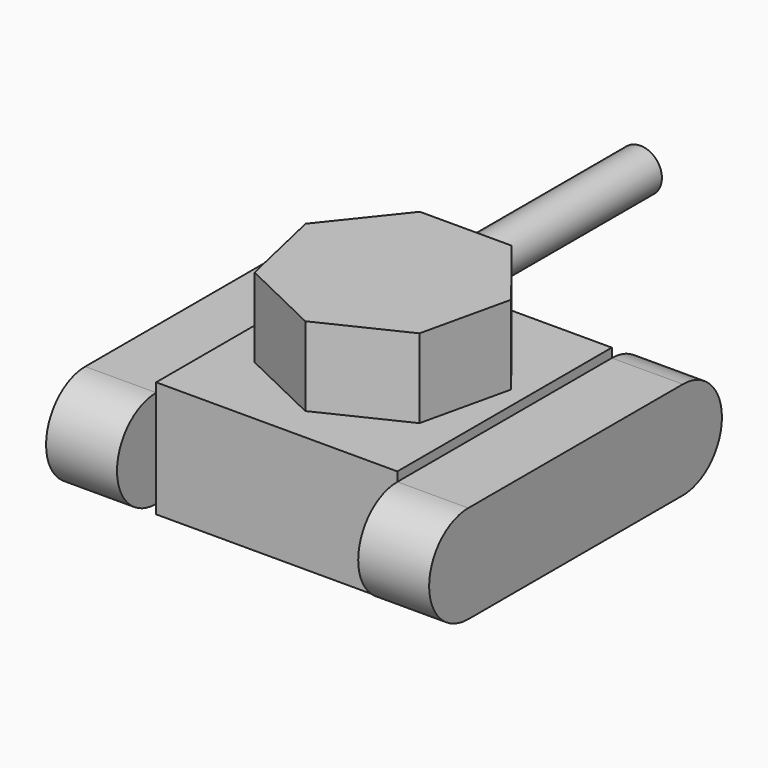
from build123d import *

# Parameters (mm, degrees)
F0_W     = 52.6865217835
F0_H     = 58.567808941
F1_DEPTH = 25.4
F2_W     = 58.567808941
F2_H     = 21.3762959349
F3_DEPTH = 15.494
F7_DEPTH = 17.272
F8_R     = 4.6929987143
F9_DEPTH = 47.498


with BuildPart() as f1:
    # F0 (on Top) → F1 (new body)
    with BuildSketch(Plane.XY):
        with Locations((1.2252675369, -1.3477941975)):
            Rectangle(F0_W, F0_H)
    extrude(amount=F1_DEPTH)

    # F2 (on face) → F3 (join)
    with BuildSketch(Plane.YZ.offset(27.5685284287)):
        with BuildLine():
            Line((-30.631698668, 2.0118520325), (-30.631698668, 23.3881479675))
            ThreePointArc((-30.631698668, 23.3881479675), (-41.3198466355, 12.7), (-30.631698668, 2.0118520325))
        make_face()
        with Locations((-1.3477941975, 12.7)):
            Rectangle(F2_W, F2_H)
        with BuildLine():
            ThreePointArc((27.936110273, 2.0118520325), (38.6242582405, 12.7), (27.936110273, 23.3881479675))
            Line((27.936110273, 23.3881479675), (27.936110273, 2.0118520325))
        make_face()
    extrude(amount=F3_DEPTH)

    # F5: F1 across plane


with BuildPart() as f1_1:
    add(f1.part)
    add(f1.part.mirror(Plane(origin=(1.2252675369, -1.3477941975, 18.5470369919), x_dir=(0, 1, 0), z_dir=(1, 0, 0))))

    # F6 (on face) → F7 (join)
    with BuildSketch(Plane.XY.offset(25.4)):
        Polygon((11.3696932765, 20.753711462), (-8.6192280958, 20.753711462), (-21.0821167216, 5.1257434326), (-16.6341632691, -14.3620139477), (1.3752325904, -23.0348818937), (19.3846284498, -14.3620139477), (23.8325819023, 5.1257434326), align=None)
    extrude(amount=F7_DEPTH)

    # F8 (on face) → F9 (join)
    with BuildSketch(Plane(origin=(0, 20.753711462, 0), x_dir=(-1, 0, 0), z_dir=(0, 1, 0))):
        with Locations((-1.5616653254, 34.6986874938)):
            Circle(F8_R)
    extrude(amount=F9_DEPTH)


solid = f1_1.part
